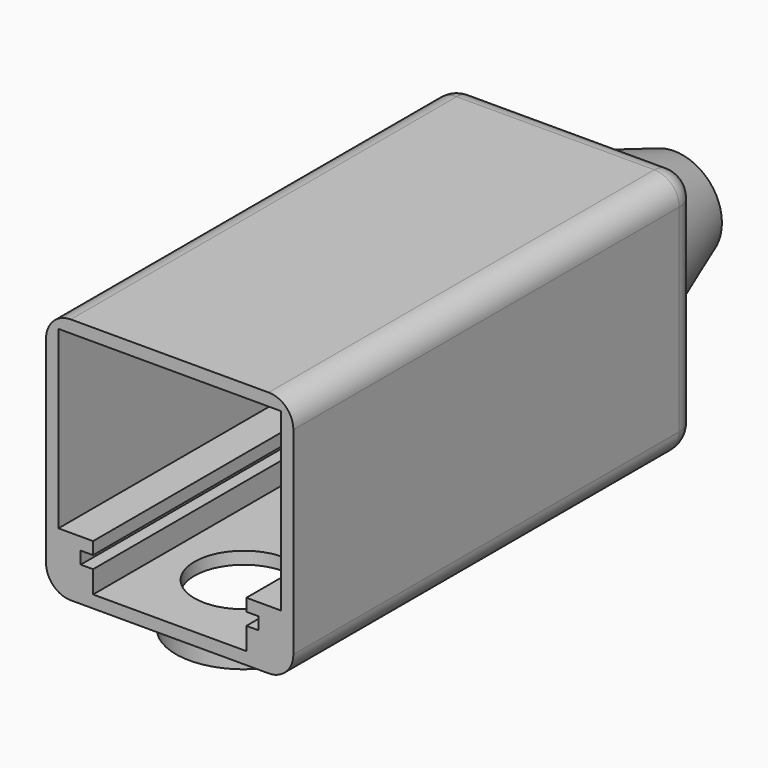
from build123d import *

# Parameters (mm, degrees)
F0_W      = 50.8
F0_H      = 50.8
F1_DEPTH  = 101.6
F3_DEPTH  = 7.62
F5_DEPTH  = 7.62
F7_DEPTH  = 6.35
F8_W      = 50.8
F8_H      = 50.8
F9_DEPTH  = 2.54
F11_DEPTH = 25.4
F11_TAPER = 20
F12_R     = 9.525
F13_DEPTH = 129.541
F14_R     = 5.08


with BuildPart() as f1:
    # F0 (on Front) → F1 (new body)
    with BuildSketch(Plane.XZ):
        with Locations((25.4, 25.4)):
            Rectangle(F0_W, F0_H)
        Polygon((2.54, 12.192), (2.54, 48.26), (48.26, 48.26), (48.26, 12.192), (41.148, 12.192), (41.148, 9.652), (43.688, 9.652), (43.688, 7.112), (41.148, 7.112), (41.148, 2.54), (9.652, 2.54), (9.652, 7.112), (7.112, 7.112), (7.112, 9.652), (9.652, 9.652), (9.652, 12.192), align=None, mode=Mode.SUBTRACT)
    extrude(amount=F1_DEPTH)

    # F2 (on face) → F3 (cut)
    with BuildSketch(Plane(origin=(0, 0, 0), x_dir=(1, 0, 0), z_dir=(0, 0, -1))):
        with BuildLine():
            ThreePointArc((25.4, 8.89), (32.5842048969, 11.8657951031), (35.56, 19.05))
            ThreePointArc((35.56, 19.05), (32.5842048969, 26.2342048969), (25.4, 29.21))
            Line((25.4, 29.21), (25.4, 8.89))
        make_face()
        with BuildLine():
            Line((25.4, 8.89), (25.4, 29.21))
            ThreePointArc((25.4, 29.21), (15.24, 19.05), (25.4, 8.89))
        make_face()
        with BuildLine():
            Line((25.4, 60.96), (25.4, 40.64))
            ThreePointArc((25.4, 40.64), (32.5842048969, 43.6157951031), (35.56, 50.8))
            ThreePointArc((35.56, 50.8), (32.5842048969, 57.9842048969), (25.4, 60.96))
        make_face()
        with BuildLine():
            ThreePointArc((25.4, 60.96), (15.24, 50.8), (25.4, 40.64))
            Line((25.4, 40.64), (25.4, 60.96))
        make_face()
        with BuildLine():
            Line((25.4, 92.71), (25.4, 72.39))
            ThreePointArc((25.4, 72.39), (32.5842048969, 75.3657951031), (35.56, 82.55))
            ThreePointArc((35.56, 82.55), (32.5842048969, 89.7342048969), (25.4, 92.71))
        make_face()
        with BuildLine():
            ThreePointArc((25.4, 92.71), (15.24, 82.55), (25.4, 72.39))
            Line((25.4, 72.39), (25.4, 92.71))
        make_face()
    extrude(amount=-F3_DEPTH, mode=Mode.SUBTRACT)

    # F4 (on face) → F5 (cut)
    with BuildSketch(Plane(origin=(0, 0, 0), x_dir=(0, -1, 0), z_dir=(-1, 0, 0))):
        with BuildLine():
            Line((44.45, 25.4), (57.15, 25.4))
            ThreePointArc((57.15, 25.4), (50.8, 31.75), (44.45, 25.4))
        make_face()
        with BuildLine():
            ThreePointArc((19.05, 25.4), (25.4, 19.05), (31.75, 25.4))
            Line((31.75, 25.4), (19.05, 25.4))
        make_face()
        with BuildLine():
            Line((19.05, 25.4), (31.75, 25.4))
            ThreePointArc((31.75, 25.4), (25.4, 31.75), (19.05, 25.4))
        make_face()
        with BuildLine():
            ThreePointArc((44.45, 25.4), (50.8, 19.05), (57.15, 25.4))
            Line((57.15, 25.4), (44.45, 25.4))
        make_face()
    extrude(amount=-F5_DEPTH, mode=Mode.SUBTRACT)

    # F6 (on face) → F7 (join)
    with BuildSketch(Plane(origin=(0, 0, 0), x_dir=(1, 0, 0), z_dir=(0, 0, -1))):
        with BuildLine():
            ThreePointArc((12.9565921067, 85.09), (25.4, 95.25), (37.8434078933, 85.09))
            Line((37.8434078933, 85.09), (39.1371503595, 85.09))
            ThreePointArc((39.1371503595, 85.09), (25.4, 96.52), (11.6628496405, 85.09))
            Line((11.6628496405, 85.09), (12.9565921067, 85.09))
        make_face()
        with BuildLine():
            ThreePointArc((12.9565921067, 53.34), (25.4, 63.5), (37.8434078933, 53.34))
            Line((37.8434078933, 53.34), (39.1371503595, 53.34))
            ThreePointArc((39.1371503595, 53.34), (25.4, 64.77), (11.6628496405, 53.34))
            Line((11.6628496405, 53.34), (12.9565921067, 53.34))
        make_face()
        with BuildLine():
            ThreePointArc((12.9565921067, 21.59), (25.4, 31.75), (37.8434078933, 21.59))
            Line((37.8434078933, 21.59), (39.1371503595, 21.59))
            ThreePointArc((39.1371503595, 21.59), (25.4, 33.02), (11.6628496405, 21.59))
            Line((11.6628496405, 21.59), (12.9565921067, 21.59))
        make_face()
    extrude(amount=F7_DEPTH)

    # F8 (on face) → F9 (join)
    with BuildSketch(Plane(origin=(0, 0, 0), x_dir=(-1, 0, 0), z_dir=(0, 1, 0))):
        with Locations((-25.4, 25.4)):
            Rectangle(F8_W, F8_H)
    extrude(amount=F9_DEPTH)

    # F10 (on face) → F11 (join)
    with BuildSketch(Plane(origin=(0, 2.54, 0), x_dir=(-1, 0, 0), z_dir=(0, 1, 0))):
        with BuildLine():
            Line((-44.45, 25.4), (-6.35, 25.4))
            ThreePointArc((-6.35, 25.4), (-25.4, 44.45), (-44.45, 25.4))
        make_face()
        with BuildLine():
            ThreePointArc((-44.45, 25.4), (-25.4, 6.35), (-6.35, 25.4))
            Line((-6.35, 25.4), (-44.45, 25.4))
        make_face()
    extrude(amount=F11_DEPTH, taper=F11_TAPER)

    # F12 (on face) → F13 (cut, through all)
    with BuildSketch(Plane(origin=(0, 27.94, 0), x_dir=(-1, 0, 0), z_dir=(0, 1, 0))):
        with Locations((-25.4, 25.4)):
            Circle(F12_R)
    extrude(amount=-F13_DEPTH, mode=Mode.SUBTRACT)

    # F14
    f14_edges = [f1.edges().sort_by_distance(p)[0] for p in [
        (25.4, 2.54, 0),
        (0, 2.54, 25.4),
        (0, -49.53, 0),
        (50.8, -49.53, 0),
        (50.8, 2.54, 25.4),
        (25.4, 2.54, 50.8),
        (50.8, -49.53, 50.8),
        (0, -49.53, 50.8),
    ]]
    fillet(f14_edges, radius=F14_R)


solid = f1.part
